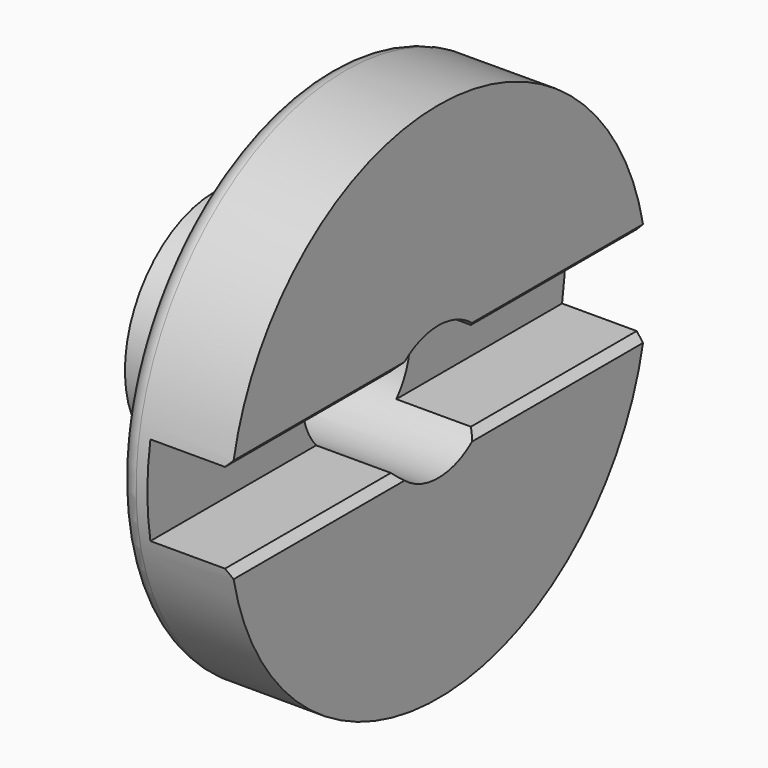
from build123d import *

# Parameters (mm, degrees)
F2_W     = 11
F2_H     = 12
F3_DEPTH = 40
F4_SIZE  = 1
F5_W     = 2.5
F5_H     = 0.6369768083
F5_W_2   = 2.8
F5_H_2   = 0.9896519035


with BuildPart() as f1:
    # F0 (on Front) → F1 (revolve)
    with BuildSketch(Plane.XZ):
        with BuildLine():
            Line((0, 15), (0, 9))
            Line((0, 9), (30, 9))
            Line((30, 9), (30, 35))
            Line((30, 35), (17.5, 35))
            ThreePointArc((17.5, 35), (15.732233047, 34.267766953), (15, 32.5))
            Line((15, 32.5), (15, 20))
            ThreePointArc((15, 20), (13.5355339059, 16.4644660941), (10, 15))
            Line((10, 15), (0, 15))
        make_face()
    revolve(axis=Axis((13.2997054259, 0, 0), (1, 0, 0)))

    # F2 (on Front) → F3 (cut, symmetric)
    with BuildSketch(Plane.XZ):
        with Locations((24.5, 0)):
            Rectangle(F2_W, F2_H)
    extrude(amount=F3_DEPTH, both=True, mode=Mode.SUBTRACT)

    # F4
    f4_edges = [f1.edges().sort_by_distance(p)[0] for p in [
        (0, 0, -9),
        (30, 20.595042, 6),
        (30, -20.595042, 6),
        (30, -20.595042, -6),
        (30, 20.595042, -6),
    ]]
    chamfer(f4_edges, length=F4_SIZE)

    # F5 (on Front) → F6 (revolve, cut)
    with BuildSketch(Plane.XZ):
        with Locations((7.25, -15.3184884042)):
            Rectangle(F5_W, F5_H)
        Polygon((6, -15), (8.5, -15), (8.8, 15), (6, 15), align=None)
        with Locations((7.4, 15.4948259518)):
            Rectangle(F5_W_2, F5_H_2)
    revolve(axis=Axis((6, 0, -0.3860071301), (0, 0, -1)), mode=Mode.SUBTRACT)


solid = f1.part
